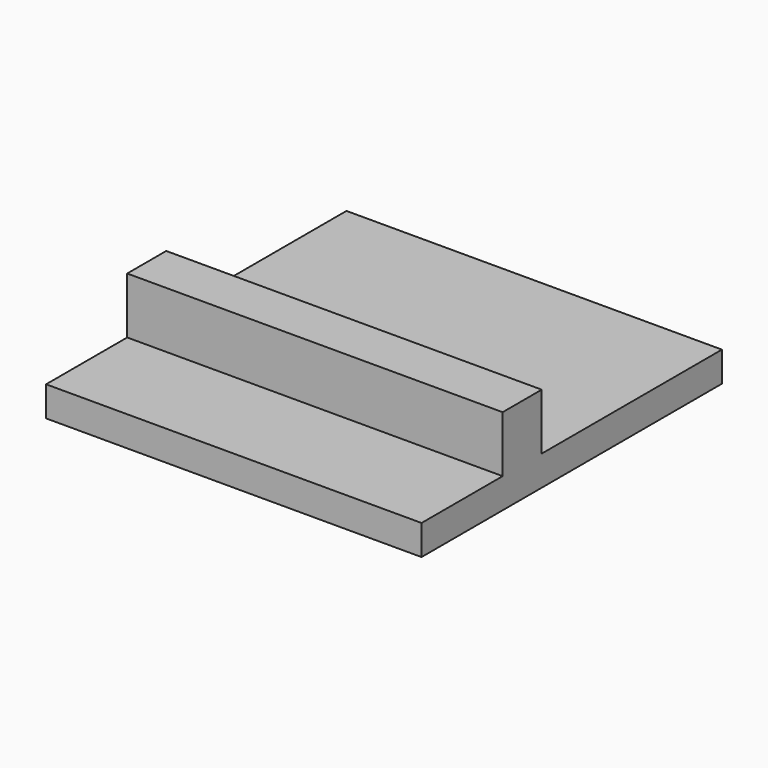
from build123d import *

# Parameters (mm, degrees)
F0_W     = 20
F0_H     = 20
F1_DEPTH = 1.6
F3_DEPTH = 4.6


with BuildPart() as f1:
    # F0 (on Top) → F1 (new body)
    with BuildSketch(Plane.XY):
        Rectangle(F0_W, F0_H)
    extrude(amount=F1_DEPTH)

    # F2 (on Top) → F3 (join)
    with BuildSketch(Plane.XY):
        Polygon((-10, -4.6), (0, -4.6), (10, -4.6), (10, -2), (-10, -2), align=None)
    extrude(amount=F3_DEPTH)


solid = f1.part
